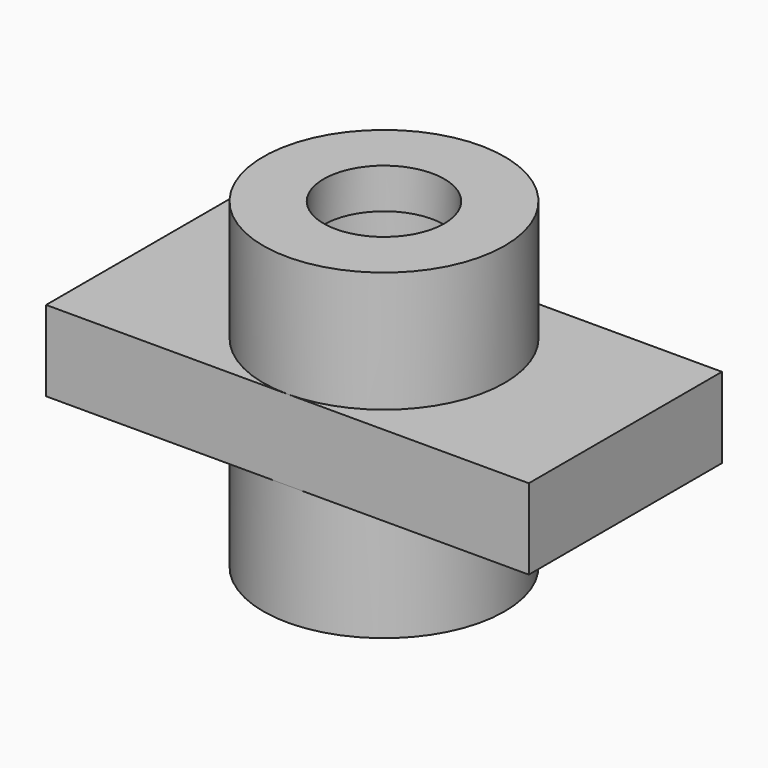
from build123d import *

# Parameters (mm, degrees)
F0_R     = 9.525
F1_DEPTH = 25.4
F2_DEPTH = 6.35
F4_START = -6.35
F3_R     = 12.7
F3_R_2   = 9.525
F4_DEPTH = 6.35


with BuildPart() as f1:
    # F0 (on Top) → F1 (new body, symmetric)
    with BuildSketch(Plane.XY):
        with BuildLine():
            ThreePointArc((38.1, 38.1), (19.05, 19.05), (38.1, 0))
            ThreePointArc((38.1, 0), (51.5703841816, 5.5796158184), (57.15, 19.05))
            ThreePointArc((57.15, 19.05), (51.5703841816, 32.5203841816), (38.1, 38.1))
        make_face()
        with Locations((38.1, 19.05)):
            Circle(F0_R, mode=Mode.SUBTRACT)
    extrude(amount=F1_DEPTH, both=True)

    # F0 (on Top) → F2 (join, symmetric)
    with BuildSketch(Plane.XY):
        with BuildLine():
            ThreePointArc((57.15, 19.05), (51.5703841816, 5.5796158184), (38.1, 0))
            Line((38.1, 0), (76.2, 0))
            Line((76.2, 0), (76.2, 38.1))
            Line((76.2, 38.1), (38.1, 38.1))
            ThreePointArc((38.1, 38.1), (51.5703841816, 32.5203841816), (57.15, 19.05))
        make_face()
        with BuildLine():
            Line((0, 38.1), (0, 0))
            Line((0, 0), (38.1, 0))
            ThreePointArc((38.1, 0), (19.05, 19.05), (38.1, 38.1))
            Line((38.1, 38.1), (0, 38.1))
        make_face()
    extrude(amount=F2_DEPTH, both=True)

    # F3 (on face) → F4 (cut)
    with BuildSketch(Plane.XY.offset(25.4).offset(F4_START)):
        with Locations((38.1, 19.05)):
            Circle(F3_R)
        with Locations((38.1, 19.05)):
            Circle(F3_R_2, mode=Mode.SUBTRACT)
    extrude(amount=-F4_DEPTH, mode=Mode.SUBTRACT)


solid = f1.part
